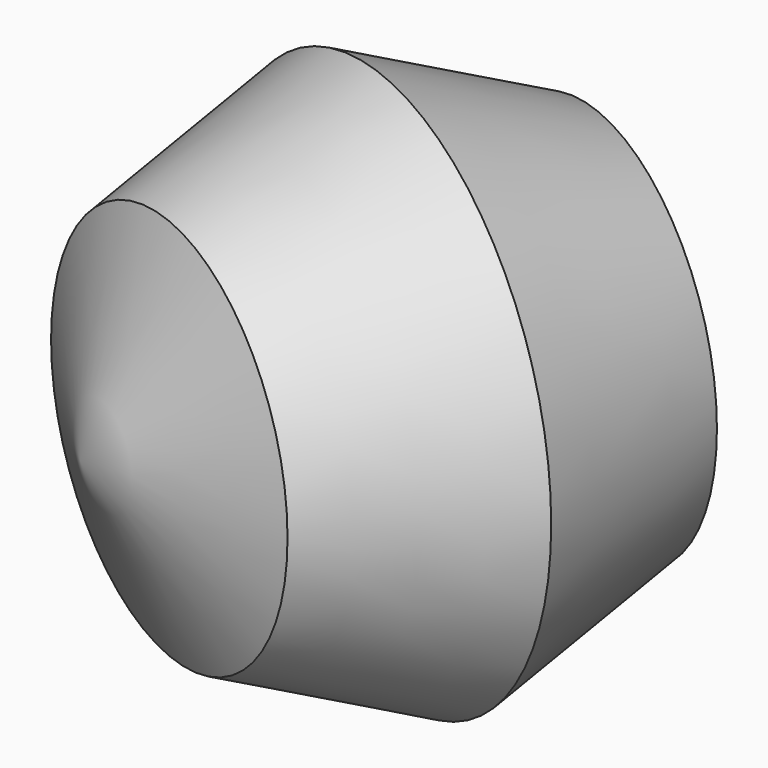
from build123d import *


with BuildPart() as f1:
    # F0 (on Top) → F1 (revolve)
    with BuildSketch(Plane.XY):
        Polygon((-44.45, 18.4117928475), (18.4117928475, 44.45), (-18.4117928475, 44.45), align=None)
        Polygon((-44.45, -18.4117928475), (-18.4117928475, -44.45), (18.4117928475, 44.45), (-44.45, 18.4117928475), align=None)
    revolve(axis=Axis((0, 0, 0), (-0.3826834324, -0.9238795325, 0)))


solid = f1.part
